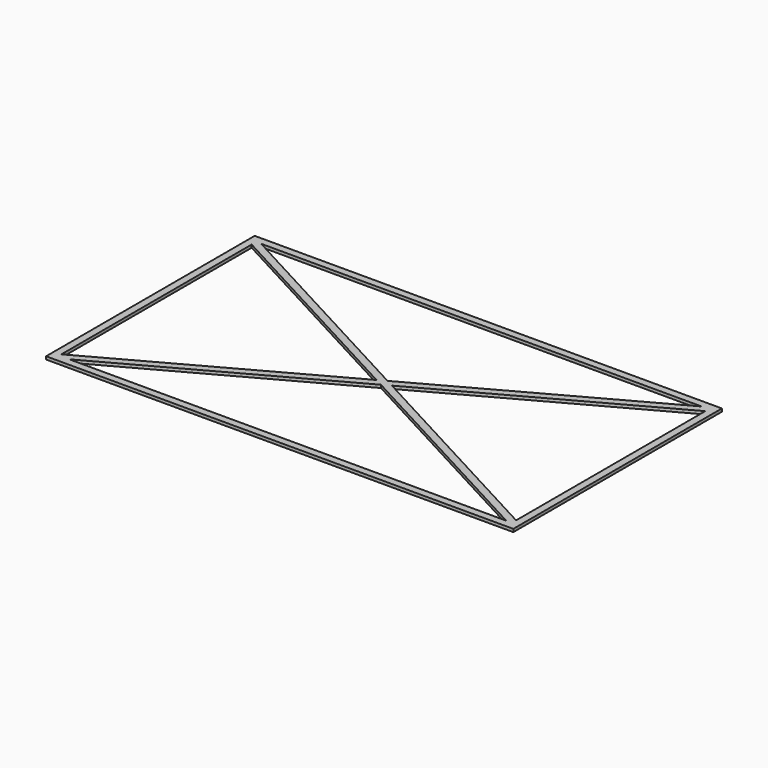
from build123d import *

# Parameters (mm, degrees)
F0_W     = 320
F0_H     = 178.592472
F1_DEPTH = 2


with BuildPart() as f1:
    # F0 (on Top) → F1 (new body)
    with BuildSketch(Plane.XY):
        with Locations((8.996977, 4.260471)):
            Rectangle(F0_W, F0_H)
        Polygon((-146.003023, -78.171602), (-146.003023, 84.701373), (4.181364, 3.906835), align=None, mode=Mode.SUBTRACT)
        Polygon((160.217504, -80.035765), (-138.988021, -80.035765), (9.435449, 1.0803), align=None, mode=Mode.SUBTRACT)
        Polygon((9.416661, 6.768018), (-142.615695, 88.556707), (159.070875, 88.556707), align=None, mode=Mode.SUBTRACT)
        Polygon((14.670747, 3.941484), (163.996977, 85.550923), (163.996977, -76.391393), align=None, mode=Mode.SUBTRACT)
        Polygon((163.912691, 88.556707), (163.996977, 88.556707), (163.996977, 88.402483), align=None, mode=Mode.SUBTRACT)
    extrude(amount=F1_DEPTH)


solid = f1.part
